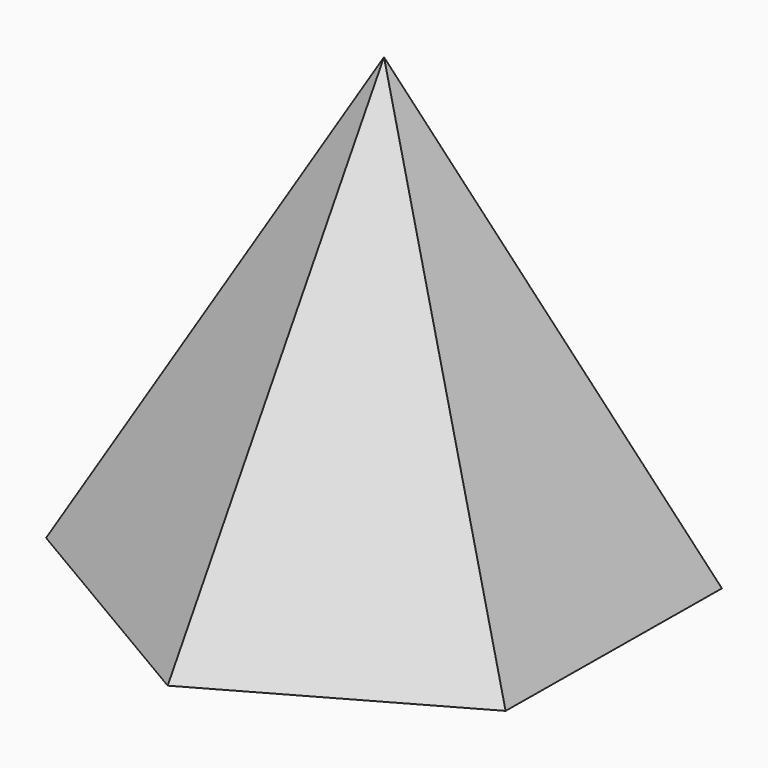
from build123d import *


with BuildPart() as f3:
    # F0 (on Top) → F3 section 0
    with BuildSketch(Plane.XY, mode=Mode.PRIVATE) as f3_s0:
        Polygon((-0.705746, -76.196732), (65.635432, -38.70956), (66.341178, 37.487172), (0.705746, 76.196732), (-65.635432, 38.70956), (-66.341178, -37.487172), align=None)
    loft([f3_s0.sketch, Vertex(0, 0, 127)])


solid = f3.part
